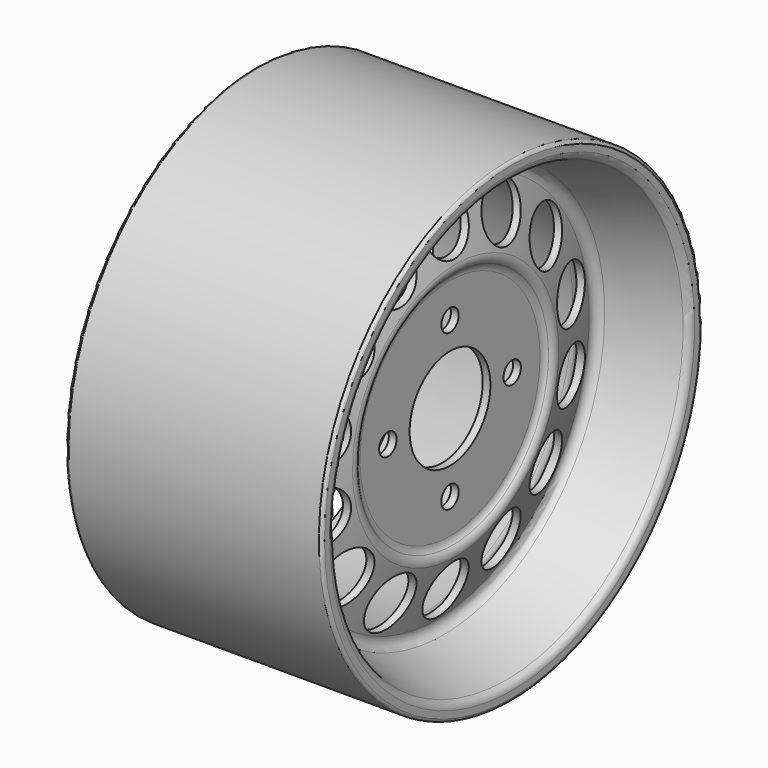
from build123d import *

# Parameters (mm, degrees)
F2_R     = 32.5
F3_DEPTH = 25
F4_R     = 7
F5_DEPTH = 25
F6_R     = 17.5
F7_DEPTH = 100
F8_R     = 5
F9_R     = 2
F10_R    = 2


with BuildPart() as f1:
    # F0 (on Front) → F1 (revolve)
    with BuildSketch(Plane.XZ):
        with BuildLine():
            Line((-5, 0), (0, 0))
            Line((0, 0), (0, 72.38984))
            ThreePointArc((0, 72.38984), (0.498071, 74.783326), (1.909592, 76.779437))
            Line((1.909592, 76.779437), (1.93578, 76.80384))
            ThreePointArc((1.93578, 76.80384), (3.637626, 79.628255), (3.589954, 82.925424))
            Line((3.589954, 82.925424), (-8.26563, 122.247514))
            ThreePointArc((-8.26563, 122.247514), (-7.805829, 126.820468), (-4.245135, 129.726459))
            Line((-4.245135, 129.726459), (40, 143))
            Line((40, 143), (40, 153))
            Line((40, 153), (-125, 153))
            Line((-125, 153), (-125, 143))
            Line((-125, 143), (-21.524986, 125.724191))
            ThreePointArc((-21.524986, 125.724191), (-15.573191, 122.896245), (-12.011946, 117.351996))
            Line((-12.011946, 117.351996), (-1.197198, 81.482101))
            Line((-1.197198, 81.482101), (-5, 75))
            Line((-5, 75), (-5, 0))
        make_face()
    revolve(axis=Axis((40, 0, 0), (1, 0, 0)))

    # F2 (on face) → F3 (cut)
    with BuildSketch(Plane.YZ):
        Circle(F2_R)
    extrude(amount=-F3_DEPTH, mode=Mode.SUBTRACT)

    # F4 (on face) → F5 (cut)
    with BuildSketch(Plane.YZ):
        with Locations((0, 50)):
            Circle(F4_R)
        with Locations((-50, 0)):
            Circle(F4_R)
        with Locations((0, -50)):
            Circle(F4_R)
        with Locations((50, 0)):
            Circle(F4_R)
    extrude(amount=-F5_DEPTH, mode=Mode.SUBTRACT)

    # F6 (on face) → F7 (cut)
    with BuildSketch(Plane.YZ.offset(40)):
        with Locations((0, 103)):
            Circle(F6_R)
        with Locations((-44.690025, 92.799793)):
            Circle(F6_R)
        with Locations((-80.528643, 64.21945)):
            Circle(F6_R)
        with Locations((-100.417575, 22.919656)):
            Circle(F6_R)
        with Locations((-100.417575, -22.919656)):
            Circle(F6_R)
        with Locations((-80.528643, -64.21945)):
            Circle(F6_R)
        with Locations((-44.690025, -92.799793)):
            Circle(F6_R)
        with Locations((0, -103)):
            Circle(F6_R)
        with Locations((44.690025, -92.799793)):
            Circle(F6_R)
        with Locations((80.528643, -64.21945)):
            Circle(F6_R)
        with Locations((100.417575, -22.919656)):
            Circle(F6_R)
        with Locations((100.417575, 22.919656)):
            Circle(F6_R)
        with Locations((80.528643, 64.21945)):
            Circle(F6_R)
        with Locations((44.690025, 92.799793)):
            Circle(F6_R)
    extrude(amount=-F7_DEPTH, mode=Mode.SUBTRACT)

    # F8
    f8_edges = [f1.edges().sort_by_distance(p)[0] for p in [
        (40, 0, -143),
    ]]
    fillet(f8_edges, radius=F8_R)

    # F9
    f9_edges = [f1.edges().sort_by_distance(p)[0] for p in [
        (40, 0, -153),
    ]]
    fillet(f9_edges, radius=F9_R)

    # F10
    f10_edges = [f1.edges().sort_by_distance(p)[0] for p in [
        (-125, 0, -153),
    ]]
    fillet(f10_edges, radius=F10_R)


solid = f1.part
